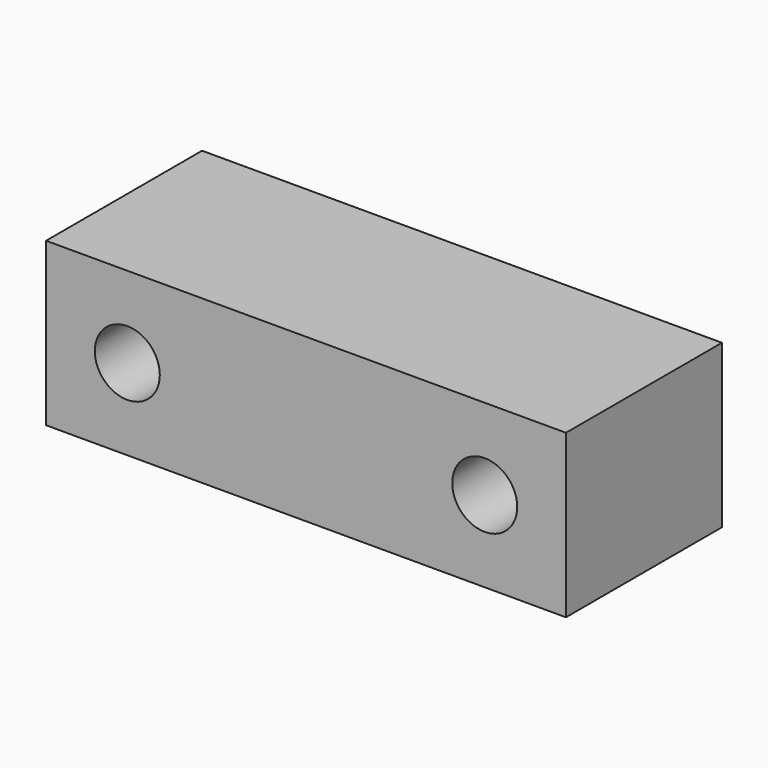
from build123d import *

# Parameters (mm, degrees)
F0_W     = 80
F0_H     = 25
F0_R     = 5
F1_DEPTH = 15
F3_D     = 4.2
F3_DEPTH = 14.4
F3_TIP   = 1.2618073


with BuildPart() as f1:
    # F0 (on Front) → F1 (new body, symmetric)
    with BuildSketch(Plane.XZ):
        Rectangle(F0_W, F0_H)
        with Locations((-27.5, 0)):
            Circle(F0_R, mode=Mode.SUBTRACT)
        with Locations((27.5, 0)):
            Circle(F0_R, mode=Mode.SUBTRACT)
    extrude(amount=F1_DEPTH, both=True)

    # F3
    with Locations(Plane(origin=(0, 0, -12.5), x_dir=(1, 0, 0), z_dir=(0, 0, -1))):
        with Locations((-27.5, 0), (27.5, 0)):
            Hole(F3_D / 2, depth=F3_DEPTH)
            with Locations((0, 0, -(F3_DEPTH + F3_TIP / 2))):  # 118° drill point
                Cone(0, F3_D / 2, F3_TIP, mode=Mode.SUBTRACT)


solid = f1.part
